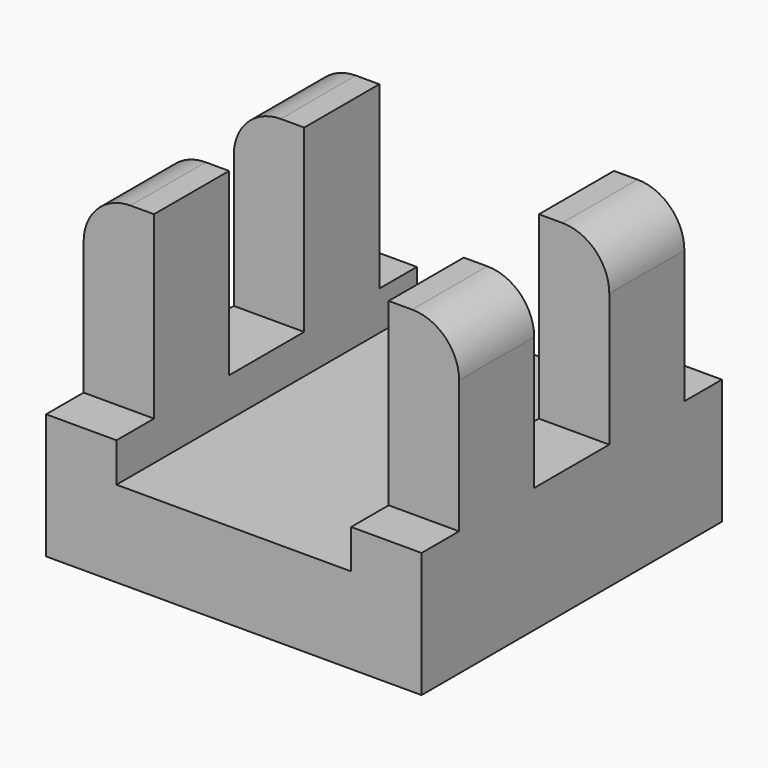
from build123d import *

# Parameters (mm, degrees)
F1_DEPTH = 5.5
F2_W     = 4.5
F2_H     = 24
F3_DEPTH = 2.5
F4_W     = 4.5
F4_H     = 6
F5_DEPTH = 11.5
F6_R     = 3
F8_DEPTH = 4


with BuildPart() as f1:
    # F0 (on Top) → F1 (new body)
    with BuildSketch(Plane.XY):
        Polygon((12, -12), (12, 0), (12, 12), (-12, 12), (-12, -12), align=None)
    extrude(amount=F1_DEPTH)

    # F2 (on face) → F3 (join)
    with BuildSketch(Plane.XY.offset(5.5)):
        with Locations((-9.75, 0)):
            Rectangle(F2_W, F2_H)
        with Locations((9.75, 0)):
            Rectangle(F2_W, F2_H)
    extrude(amount=F3_DEPTH)

    # F4 (on face) → F5 (join)
    with BuildSketch(Plane.XY.offset(8)):
        with Locations((-9.75, 6)):
            Rectangle(F4_W, F4_H)
        with Locations((-9.75, -6)):
            Rectangle(F4_W, F4_H)
        with Locations((9.75, 6)):
            Rectangle(F4_W, F4_H)
        with Locations((9.75, -6)):
            Rectangle(F4_W, F4_H)
    extrude(amount=F5_DEPTH)

    # F6
    f6_edges = [f1.edges().sort_by_distance(p)[0] for p in [
        (12, -6, 19.5),
        (12, 6, 19.5),
        (-12, 6, 19.5),
        (-12, -6, 19.5),
    ]]
    fillet(f6_edges, radius=F6_R)

    # F7 (on face) → F8 (cut)
    with BuildSketch(Plane(origin=(0, 0, 0), x_dir=(1, 0, 0), z_dir=(0, 0, -1))):
        with BuildLine():
            Line((-3, -7), (0, -7))
            Line((0, -7), (3, -7))
            ThreePointArc((3, -7), (5.12132, -6.12132), (6, -4))
            Line((6, -4), (6, 4))
            ThreePointArc((6, 4), (5.12132, 6.12132), (3, 7))
            Line((3, 7), (-3, 7))
            ThreePointArc((-3, 7), (-5.12132, 6.12132), (-6, 4))
            Line((-6, 4), (-6, -4))
            ThreePointArc((-6, -4), (-5.12132, -6.12132), (-3, -7))
        make_face()
    extrude(amount=-F8_DEPTH, mode=Mode.SUBTRACT)


solid = f1.part
